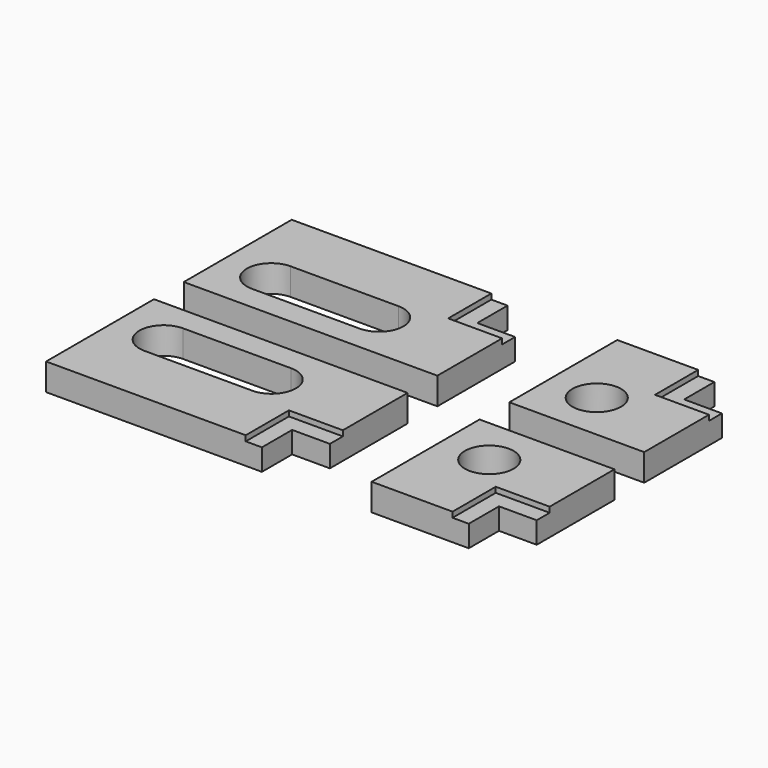
from build123d import *

# Parameters (mm, degrees)
F0_R     = 4.5
F1_DEPTH = 5
F2_DEPTH = 4


with BuildPart() as f1:
    # F0 (on Top) → F1 (new body)
    with BuildSketch(Plane.XY):
        Polygon((-54.977827, 3.449424), (-7.977827, 3.449424), (-7.977827, 18.449424), (-17.977827, 18.449424), (-17.977827, 28.449424), (-54.977827, 28.449424), align=None)
        with BuildLine():
            ThreePointArc((-45.977827, 7.949424), (-50.477827, 12.449424), (-45.977827, 16.949424))
            Line((-45.977827, 16.949424), (-25.977827, 16.949424))
            ThreePointArc((-25.977827, 16.949424), (-21.477827, 12.449424), (-25.977827, 7.949424))
            Line((-25.977827, 7.949424), (-45.977827, 7.949424))
        make_face(mode=Mode.SUBTRACT)
        Polygon((5.357056, 28.449424), (5.357056, 3.449424), (30.357056, 3.449424), (30.357056, 18.449424), (20.357056, 18.449424), (20.357056, 28.449424), align=None)
        with Locations((14.357056, 12.449424)):
            Circle(F0_R, mode=Mode.SUBTRACT)
    extrude(amount=F1_DEPTH)

    # F0 (on Top) → F2 (join)
    with BuildSketch(Plane.XY):
        Polygon((-17.977827, 18.449424), (-7.977827, 18.449424), (-7.977827, 21.449424), (-14.977827, 21.449424), (-14.977827, 28.449424), (-17.977827, 28.449424), align=None)
        Polygon((23.357056, 28.449424), (20.357056, 28.449424), (20.357056, 18.449424), (30.357056, 18.449424), (30.357056, 21.449424), (23.357056, 21.449424), align=None)
    extrude(amount=F2_DEPTH)


with BuildPart() as f3_1:
    # F3: instance of F1
    add(f1.part.mirror(Plane.XZ))


solid = Compound([f1.part, f3_1.part])
